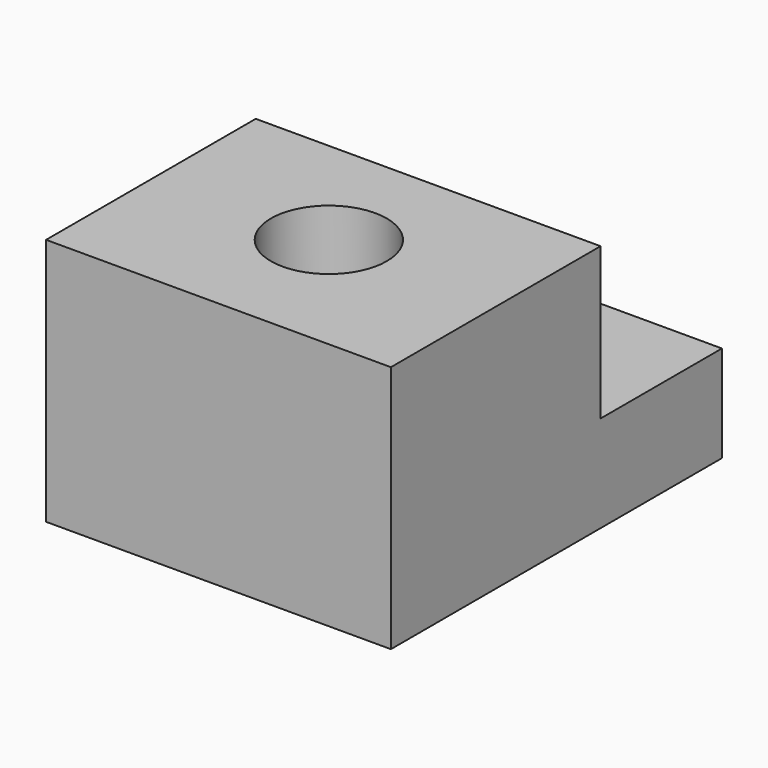
from build123d import *

# Parameters (mm, degrees)
F1_DEPTH = 12.5
F2_R     = 2.1
F3_DEPTH = 25


with BuildPart() as f1:
    # F0 (on Right) → F1 (new body)
    with BuildSketch(Plane.YZ):
        Polygon((1.867091, 1.676719), (-7.632909, 1.676719), (-7.632909, -7.323281), (7.367091, -7.323281), (7.367091, -3.823281), (1.867091, -3.823281), align=None)
    extrude(amount=F1_DEPTH)

    # F2 (on face) → F3 (cut)
    with BuildSketch(Plane.XY.offset(1.676719)):
        with Locations((6.25, -2.632909)):
            Circle(F2_R)
    extrude(amount=-F3_DEPTH, mode=Mode.SUBTRACT)


solid = f1.part
